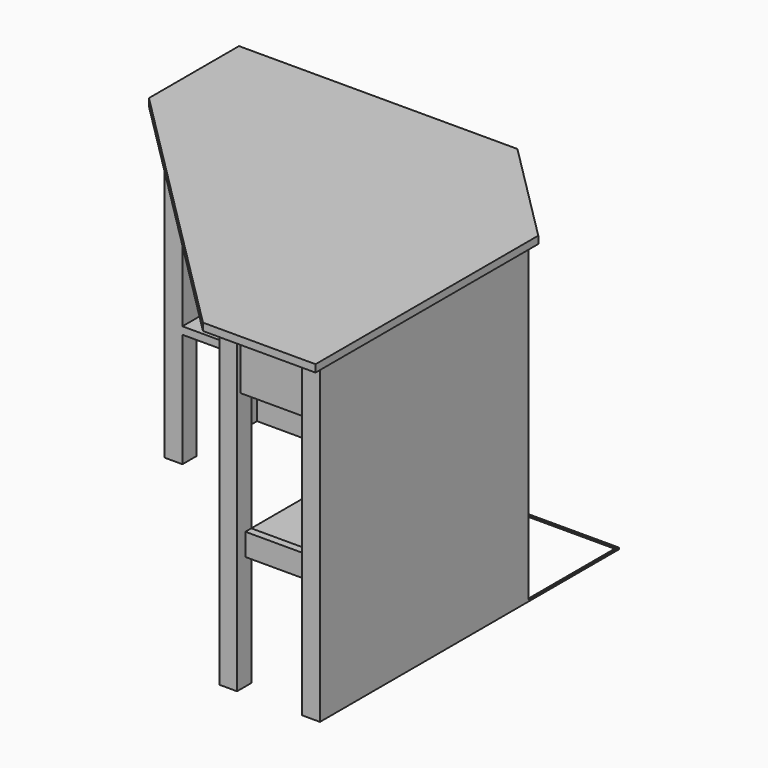
from build123d import *

# Parameters (mm, degrees)
F1_DEPTH  = 15.875
F3_DEPTH  = 666.75
F4_W      = 139.7
F4_H      = 266.7
F4_H_2    = 244.475
F5_DEPTH  = 25.4
F6_W      = 139.7
F6_H      = 47.625
F7_DEPTH  = 12.7
F8_W      = 139.7
F8_H      = 47.625
F9_DEPTH  = 12.7
F10_W     = 139.7
F10_H     = 266.7
F10_H_2   = 244.475
F11_DEPTH = 25.4
F12_W     = 139.7
F12_H     = 47.625
F13_DEPTH = 12.7
F14_W     = 139.7
F14_H     = 47.625
F15_DEPTH = 12.7
F17_DEPTH = 504.825
F19_DEPTH = 504.825
F21_DEPTH = 3.175


with BuildPart() as f1:
    # F0 (on Top) → F1 (new body)
    with BuildSketch(Plane.XY):
        Polygon((177.06789, 329.740763), (-419.83211, 329.740763), (-419.83211, 88.440763), (159.394409, -490.785757), (400.694409, -490.785757), (400.694409, 106.114243), align=None)
    extrude(amount=F1_DEPTH)

    # F2 (on face) → F3 (join)
    with BuildSketch(Plane(origin=(0, 0, 0), x_dir=(1, 0, 0), z_dir=(0, 0, -1))):
        Polygon((397.519409, 436.810757), (397.519409, 474.910757), (359.419409, 474.910757), (359.419409, 465.385757), (219.719409, 465.385757), (219.719409, 474.910757), (181.619409, 474.910757), (181.619409, 436.810757), (219.719409, 436.810757), (219.719409, 449.510757), (359.419409, 449.510757), (359.419409, 436.810757), (381.644409, 436.810757), align=None)
        Polygon((397.519409, -83.889243), (397.519409, 436.810757), (381.644409, 436.810757), (381.644409, -68.014243), (138.96789, -68.014243), (138.96789, -310.690763), (-365.85711, -310.690763), (-365.85711, -326.565763), (154.84289, -326.565763), (154.84289, -310.690763), (154.84289, -83.889243), (381.644409, -83.889243), align=None)
        Polygon((-365.85711, -326.565763), (-365.85711, -310.690763), (-365.85711, -288.465763), (-378.55711, -288.465763), (-378.55711, -148.765763), (-365.85711, -148.765763), (-365.85711, -110.665763), (-403.95711, -110.665763), (-403.95711, -148.765763), (-394.43211, -148.765763), (-394.43211, -288.465763), (-403.95711, -288.465763), (-403.95711, -326.565763), align=None)
    extrude(amount=F3_DEPTH)

    # F4 (on face) → F5 (cut)
    with BuildSketch(Plane(origin=(-394.43211, 0, 0), x_dir=(0, -1, 0), z_dir=(-1, 0, 0))):
        with Locations((-218.615763, -241.3)):
            Rectangle(F4_W, F4_H)
        with Locations((-218.615763, -544.5125)):
            Rectangle(F4_W, F4_H_2)
    extrude(amount=-F5_DEPTH, mode=Mode.SUBTRACT)

    # F6 (on face) → F7 (join)
    with BuildSketch(Plane.YZ.offset(-378.55711)):
        with Locations((218.615763, -398.4625)):
            Rectangle(F6_W, F6_H)
    extrude(amount=F7_DEPTH)

    # F8 (on face) → F9 (cut)
    with BuildSketch(Plane(origin=(-394.43211, 0, 0), x_dir=(0, -1, 0), z_dir=(-1, 0, 0))):
        with Locations((-218.615763, -398.4625)):
            Rectangle(F8_W, F8_H)
    extrude(amount=-F9_DEPTH, mode=Mode.SUBTRACT)

    # F10 (on face) → F11 (cut)
    with BuildSketch(Plane.XZ.offset(465.385757)):
        with Locations((289.569409, -241.3)):
            Rectangle(F10_W, F10_H)
        with Locations((289.569409, -544.5125)):
            Rectangle(F10_W, F10_H_2)
    extrude(amount=-F11_DEPTH, mode=Mode.SUBTRACT)

    # F12 (on face) → F13 (join)
    with BuildSketch(Plane(origin=(0, -449.510757, 0), x_dir=(-1, 0, 0), z_dir=(0, 1, 0))):
        with Locations((-289.569409, -398.4625)):
            Rectangle(F12_W, F12_H)
    extrude(amount=F13_DEPTH)

    # F14 (on face) → F15 (cut)
    with BuildSketch(Plane.XZ.offset(465.385757)):
        with Locations((289.569409, -398.4625)):
            Rectangle(F14_W, F14_H)
    extrude(amount=-F15_DEPTH, mode=Mode.SUBTRACT)

    # F16 (on face) → F17 (join)
    with BuildSketch(Plane.YZ.offset(-365.85711)):
        Polygon((148.765763, -422.275), (288.465763, -422.275), (310.690763, -422.275), (310.690763, -406.4), (110.665763, -406.4), (110.665763, -422.275), align=None)
    extrude(amount=F17_DEPTH)

    # F18 (on face) → F19 (join)
    with BuildSketch(Plane(origin=(0, -436.810757, 0), x_dir=(-1, 0, 0), z_dir=(0, 1, 0))):
        Polygon((-381.644409, -422.275), (-359.419409, -422.275), (-219.719409, -422.275), (-181.619409, -422.275), (-181.619409, -406.4), (-381.644409, -406.4), align=None)
    extrude(amount=F19_DEPTH)

    # F20 (on face) → F21 (join)
    with BuildSketch(Plane(origin=(0, 0, -666.75), x_dir=(1, 0, 0), z_dir=(0, 0, -1))):
        Polygon((154.84289, -323.390763), (154.84289, -326.565763), (397.519409, -326.565763), (397.519409, -83.889243), (394.344409, -83.889243), (394.344409, -323.390763), align=None)
    extrude(amount=-F21_DEPTH)


solid = f1.part
